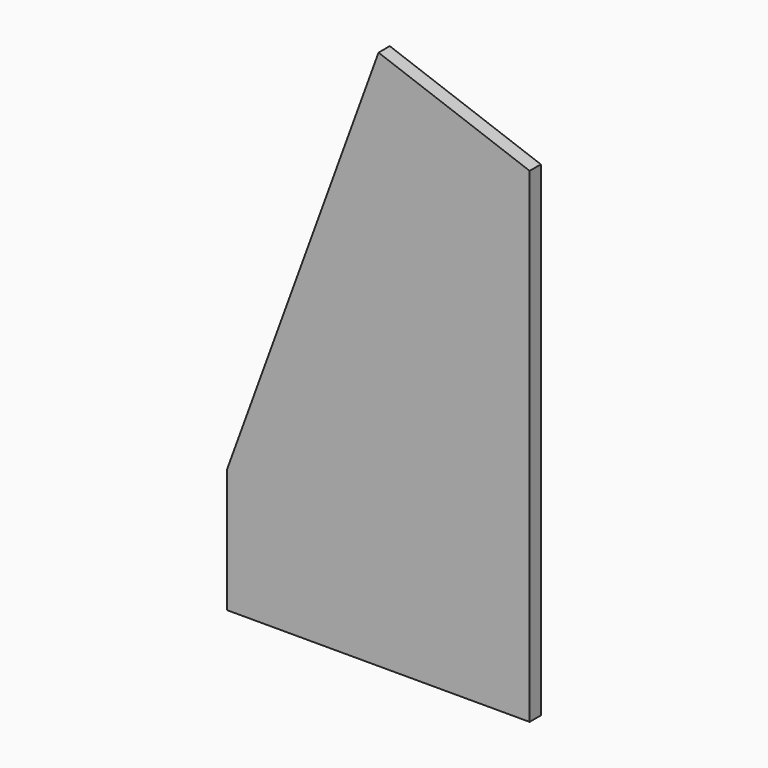
from build123d import *

# Parameters (mm, degrees)
PAD_DEPTH = 13


with BuildPart() as part:
    # Sketch → Pad (new body)
    with BuildSketch(Plane.XZ):
        Polygon((0, 0), (280, 0), (280, 449.090952), (140.12854, 500), (0, 115), align=None)
    extrude(amount=-PAD_DEPTH)


solid = part.part
